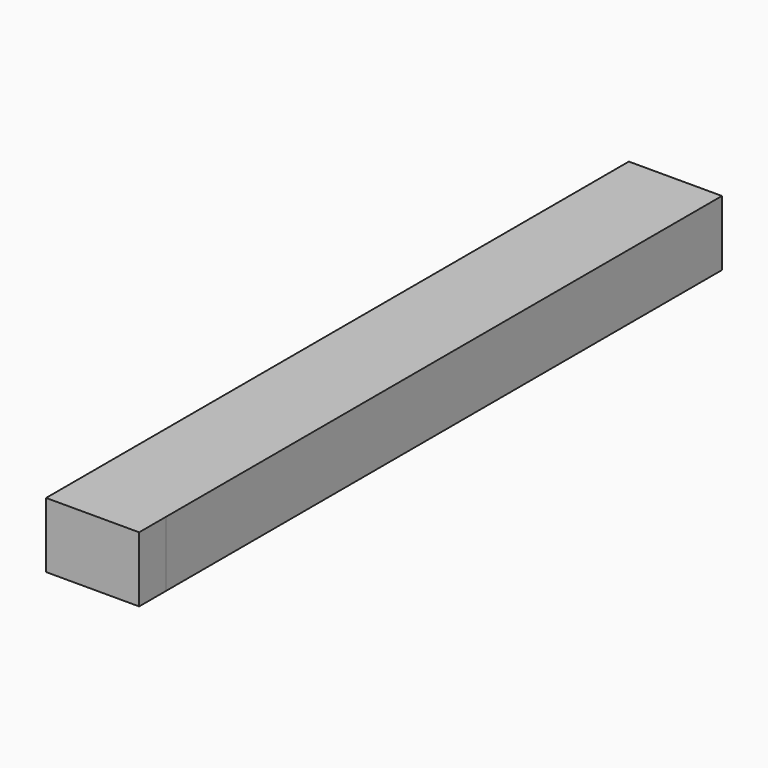
from build123d import *

# Parameters (mm, degrees)
F0_W      = 24.503531
F0_H      = 17.182354
F0_W_2    = 19.423531
F0_H_2    = 12.102353
F1_DEPTH  = 182.88
F1_FACE_W = 24.50353
F1_FACE_H = 17.182354
F2_DEPTH  = 8.89


with BuildPart() as f1:
    # F0 (on Front) → F1 (new body)
    with BuildSketch(Plane.XZ):
        with Locations((0.132886, -1.278598)):
            Rectangle(F0_W, F0_H)
        with Locations((0.132885, -1.278598)):
            Rectangle(F0_W_2, F0_H_2, mode=Mode.SUBTRACT)
        with Locations((0.132885, -1.278598)):
            Rectangle(F0_W_2, F0_H_2)
    extrude(amount=F1_DEPTH)

    # F1_face (on face) → F2 (join)
    with BuildSketch(Plane(origin=(0.132886, -182.88, -1.278598), x_dir=(1, 0, 0), z_dir=(0, -1, 0))):
        Rectangle(F1_FACE_W, F1_FACE_H)
    extrude(amount=F2_DEPTH)


solid = f1.part
